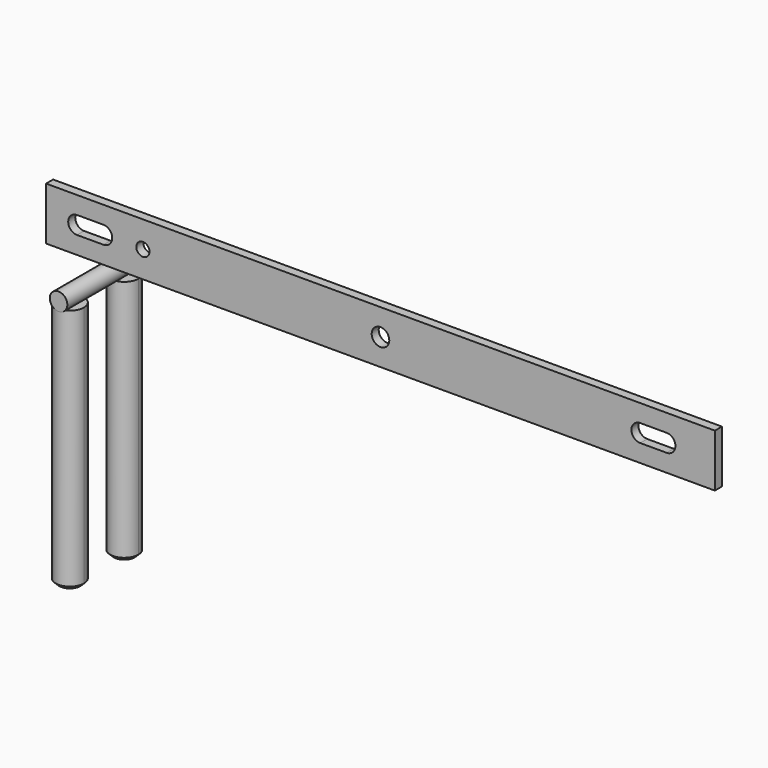
from build123d import *

# Parameters (mm, degrees)
F0_W     = 482.6
F0_H     = 38.1
F0_R     = 4.7625
F0_R_2   = 6.35
F1_DEPTH = 6.35
F2_R     = 6.35
F3_DEPTH = 34.925
F5_START = -25.4
F5_DEPTH = 177.8
F8_SIZE  = 2.54
F9_SIZE  = 2.54


with BuildPart() as f1:
    # F0 (on Front) → F1 (new body)
    with BuildSketch(Plane.XZ):
        Rectangle(F0_W, F0_H)
        with BuildLine():
            ThreePointArc((-218.9873446465, -6.35), (-225.3373446465, 0), (-218.9873446465, 6.35))
            Line((-218.9873446465, 6.35), (-199.9373446465, 6.35))
            ThreePointArc((-199.9373446465, 6.35), (-195.4472165859, 4.4901280605), (-193.5873446465, 0))
            ThreePointArc((-193.5873446465, 0), (-195.4472165859, -4.4901280605), (-199.9373446465, -6.35))
            Line((-199.9373446465, -6.35), (-218.9873446465, -6.35))
        make_face(mode=Mode.SUBTRACT)
        with Locations((-171.45, 0)):
            Circle(F0_R, mode=Mode.SUBTRACT)
        Circle(F0_R_2, mode=Mode.SUBTRACT)
        with BuildLine():
            Line((187.4126553535, 6.35), (206.4626553535, 6.35))
            ThreePointArc((206.4626553535, 6.35), (210.9527834141, 4.4901280605), (212.8126553535, 0))
            ThreePointArc((212.8126553535, 0), (210.9527834141, -4.4901280605), (206.4626553535, -6.35))
            Line((206.4626553535, -6.35), (187.4126553535, -6.35))
            ThreePointArc((187.4126553535, -6.35), (181.0626553535, 0), (187.4126553535, 6.35))
        make_face(mode=Mode.SUBTRACT)
    extrude(amount=F1_DEPTH)


with BuildPart() as f3:
    # F2 (on Front) → F3 (new body, symmetric)
    with BuildSketch(Plane.XZ):
        with Locations((-209.4452381134, -33.8595211506)):
            Circle(F2_R)
    extrude(amount=F3_DEPTH, both=True)


with BuildPart() as f5:
    # F4 (on Top) → F5 (new body)
    with BuildSketch(Plane.XY.offset(F5_START)):
        with BuildLine():
            ThreePointArc((-209.5690518618, -35.2836660483), (-216.7398640233, -52.5955380219), (-199.4279920497, -45.4247258604))
            ThreePointArc((-199.4279920497, -45.4247258604), (-202.3982397002, -38.2539136988), (-209.5690518618, -35.2836660483))
        make_face()
    extrude(amount=-F5_DEPTH)


with BuildPart() as f6_1:
    # F6: copy of F5
    add(f5.part.moved(Location((0, 69.92422, -14.95706))))

    # F9
    f9_edges = [f6_1.edges().sort_by_distance(p)[0] for p in [
        (-219.710112, 24.499494, -218.15706),
    ]]
    chamfer(f9_edges, length=F9_SIZE)


with BuildPart() as f5_1:
    # F7: moved
    add(f5.part.moved(Location((0, 20.85559, -13.29831))))

    # F8
    f8_edges = [f5_1.edges().sort_by_distance(p)[0] for p in [
        (-219.710112, -24.569136, -216.49831),
    ]]
    chamfer(f8_edges, length=F8_SIZE)


solid = Compound([f1.part, f3.part, f6_1.part, f5_1.part])
